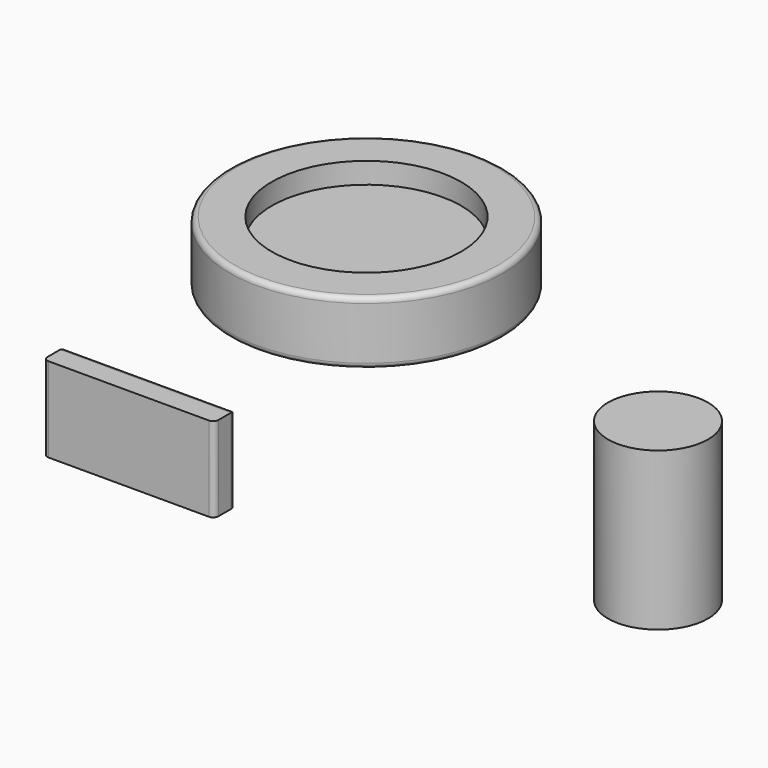
from build123d import *

# Parameters (mm, degrees)
F0_R     = 130.025123
F1_DEPTH = 60
F2_T     = -40
F3_R     = 5
F4_R     = 47.57201
F5_DEPTH = 150
F6_W     = 162.502587
F6_H     = 80.623209
F7_DEPTH = 25
F8_R     = 5
F8_2_R   = 5


with BuildPart() as f1:
    # F0 (on Top) → F1 (new body)
    with BuildSketch(Plane.XY):
        with Locations((-170.264244, -261.473209)):
            Circle(F0_R)
    extrude(amount=F1_DEPTH)

    # F2
    f2_openings = [f1.faces().sort_by_distance(p)[0] for p in [
        (-170.264244, -261.473209, 60),
    ]]
    offset(amount=F2_T, openings=f2_openings)

    # F3
    f3_edges = [f1.edges().sort_by_distance(p)[0] for p in [
        (-300.289367, -261.473209, 60),
    ]]
    fillet(f3_edges, radius=F3_R)

    # F8#2
    f8_2_edges = [f1.edges().sort_by_distance(p)[0] for p in [
        (-300.289367, -261.473209, 0),
    ]]
    fillet(f8_2_edges, radius=F8_2_R)


with BuildPart() as f5:
    # F4 (on Top) → F5 (new body)
    with BuildSketch(Plane.XY):
        with Locations((311.998397, -517.698646)):
            Circle(F4_R)
    extrude(amount=F5_DEPTH)


with BuildPart() as f7:
    # F6 (on Front) → F7 (new body)
    with BuildSketch(Plane.XZ):
        with Locations((-585.511416, -357.268483)):
            Rectangle(F6_W, F6_H)
    extrude(amount=F7_DEPTH)

    # F8
    f8_edges = [f7.edges().sort_by_distance(p)[0] for p in [
        (-585.511416, 0, -316.956878),
        (-666.76271, -25, -357.268482),
        (-504.260123, -25, -357.268482),
        (-666.76271, 0, -357.268482),
        (-504.260123, 0, -357.268482),
    ]]
    fillet(f8_edges, radius=F8_R)


solid = Compound([f1.part, f5.part, f7.part])
